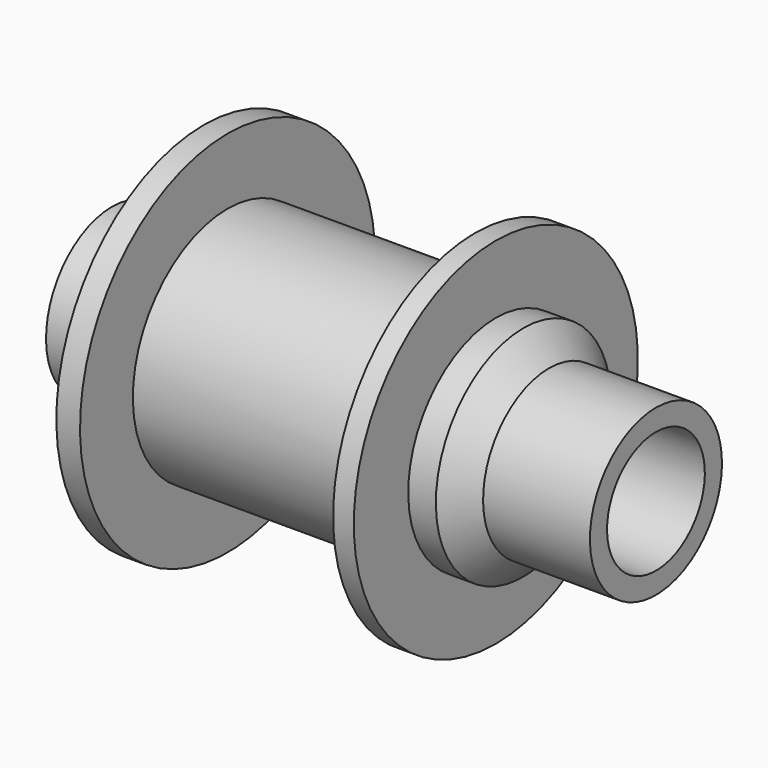
from build123d import *


with BuildPart() as f1:
    # F0 (on Front) → F1 (revolve)
    with BuildSketch(Plane.XZ):
        Polygon((-59.87886, 27.429022), (-90.414178, 27.429022), (-90.414178, 20.317797), (90.414178, 20.317797), (90.414178, 27.429022), (54.889582, 27.429022), align=None)
        Polygon((-59.87886, 61.319139), (-59.87886, 27.429022), (54.889582, 27.429022), (46.363931, 36.397994), (37.18245, 36.397994), (37.18245, 59.023771), (30.296344, 59.023771), (30.296344, 39.349183), (-52.009024, 39.349183), (-52.009024, 61.319139), align=None)
    revolve(axis=Axis((4.317533, 0, 0), (1, 0, 0)))


solid = f1.part
